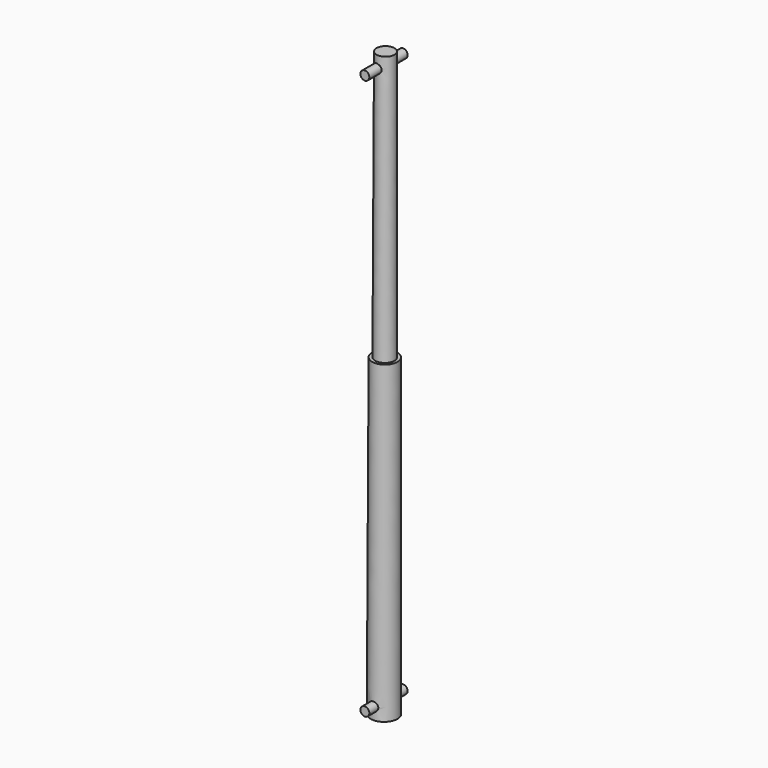
from build123d import *

# Parameters (mm, degrees)
F2_R     = 7.5
F3_DEPTH = 40


with BuildPart() as f1:
    # F0 (on Front) → F1 (revolve)
    with BuildSketch(Plane.XZ):
        Polygon((2.5, 975), (0, 0), (22.5, 0), (22.5, 525), (17.5, 525), (17.5, 975), align=None)
    revolve(axis=Axis((1.25, 0, 487.5), (-0.0025640941, 0, -0.9999967127)))

    # F2 (on Front) → F3 (join, symmetric)
    with BuildSketch(Plane.XZ):
        with Locations((0, 20)):
            Circle(F2_R)
        with Locations((0, 955)):
            Circle(F2_R)
    extrude(amount=F3_DEPTH, both=True)


solid = f1.part
